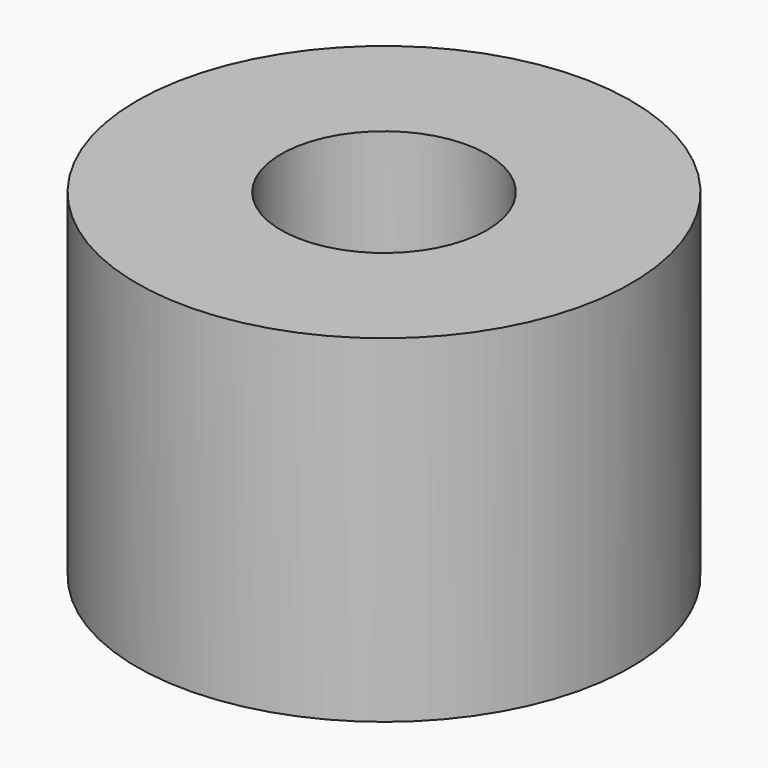
from build123d import *

# Parameters (mm, degrees)
CYLINDER086_R          = 1.25
CYLINDER086_DEPTH      = 5
CYLINDER087_R          = 3
CYLINDER087_DEPTH      = 4.1
CUT044_PLACEMENT_ANGLE = 90


with BuildPart() as b_w021:
    # Cylinder086 → Cylinder086 (new body)
    with BuildSketch(Plane(origin=(2, 6, 26), x_dir=(0, 0, 1), z_dir=(-1, 0, 0))):
        Circle(CYLINDER086_R)
    extrude(amount=CYLINDER086_DEPTH)


with BuildPart() as h_n:
    # Cylinder087 → Cylinder087 (new body)
    with BuildSketch(Plane(origin=(-1, 6, 26), x_dir=(0, 0, -1), z_dir=(1, 0, 0))):
        Circle(CYLINDER087_R)
    extrude(amount=CYLINDER087_DEPTH)

    # Cut044: cut B_W021
    add(b_w021.part, mode=Mode.SUBTRACT)


with BuildPart() as h_n_1:
    # Cut044 placement: moved
    add(h_n.part.moved(Location((14, 29.5, 3))).rotate(Axis((14, 29.5, 3), (0, 1, 0)), CUT044_PLACEMENT_ANGLE))


solid = h_n_1.part
